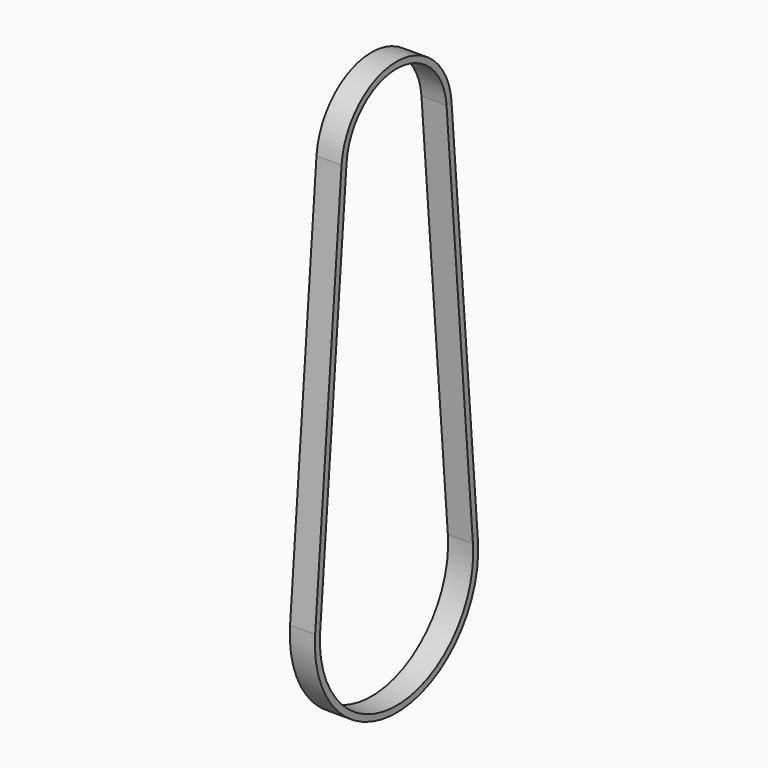
from build123d import *

# Parameters (mm, degrees)
F1_DEPTH = 6.35


with BuildPart() as f1:
    # F0 (on Right) → F1 (new body, symmetric)
    with BuildSketch(Plane.YZ):
        with BuildLine():
            Line((-34.806537, 206.582127), (-51.513675, 4.253708))
            ThreePointArc((-51.513675, 4.253708), (0, -51.689), (51.513675, 4.253708))
            Line((51.513675, 4.253708), (34.806537, 206.582127))
            ThreePointArc((34.806537, 206.582127), (0, 238.633), (-34.806537, 206.582127))
        make_face()
        with BuildLine():
            ThreePointArc((48.349444, 3.992424), (0, -48.514), (-48.349444, 3.992424))
            Line((-48.349444, 3.992424), (-31.642306, 206.320843))
            ThreePointArc((-31.642306, 206.320843), (0, 235.458), (31.642306, 206.320843))
            Line((31.642306, 206.320843), (48.349444, 3.992424))
        make_face(mode=Mode.SUBTRACT)
    extrude(amount=F1_DEPTH, both=True)


solid = f1.part
